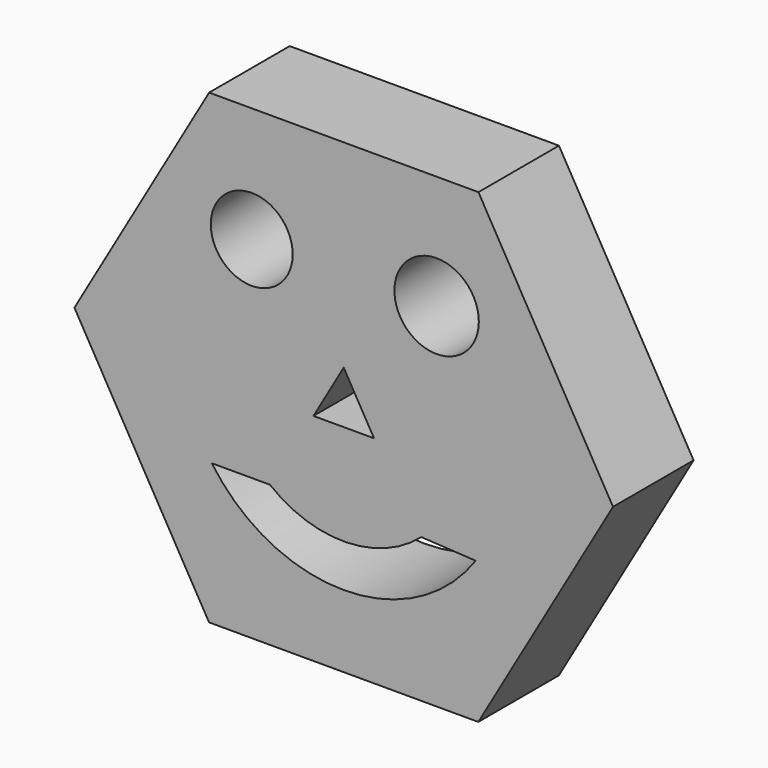
from build123d import *

# Parameters (mm, degrees)
F1_DEPTH = 25.4
F2_R     = 10.329538
F3_DEPTH = 25.401
F4_R     = 10.647707
F5_DEPTH = 25.4
F7_DEPTH = 25.4
F9_DEPTH = 25.4


with BuildPart() as f1:
    # F0 (on Front) → F1 (new body)
    with BuildSketch(Plane.XZ):
        Polygon((-67.925481, 0.01739), (-33.977801, -58.816497), (33.94768, -58.833887), (67.925481, -0.01739), (33.977801, 58.816497), (-33.94768, 58.833887), align=None)
    extrude(amount=F1_DEPTH)

    # F2 (on face) → F3 (cut, through all)
    with BuildSketch(Plane.XZ.offset(25.4)):
        with Locations((-23.201194, 29.740747)):
            Circle(F2_R)
    extrude(amount=-F3_DEPTH, mode=Mode.SUBTRACT)

    # F4 (on Front) → F5 (cut)
    with BuildSketch(Plane.XZ):
        with Locations((23.428654, 30.081941)):
            Circle(F4_R)
    extrude(amount=F5_DEPTH, mode=Mode.SUBTRACT)

    # F6 (on face) → F7 (cut)
    with BuildSketch(Plane.XZ.offset(25.4)):
        Polygon((7.633303, -4.40709), (0, 8.814179), (-7.633303, -4.40709), align=None)
    extrude(amount=-F7_DEPTH, mode=Mode.SUBTRACT)

    # F8 (on face) → F9 (cut)
    with BuildSketch(Plane.XZ.offset(25.4)):
        with BuildLine():
            Line((-18.615896, -23.2519), (-33.279214, -23.2519))
            ThreePointArc((-33.279214, -23.2519), (0, -40.5975), (33.279214, -23.2519))
            Line((33.279214, -23.2519), (19.561792, -22.46194))
            ThreePointArc((19.561792, -22.46194), (0.616189, -29.779569), (-18.615896, -23.2519))
        make_face()
    extrude(amount=-F9_DEPTH, mode=Mode.SUBTRACT)


solid = f1.part
